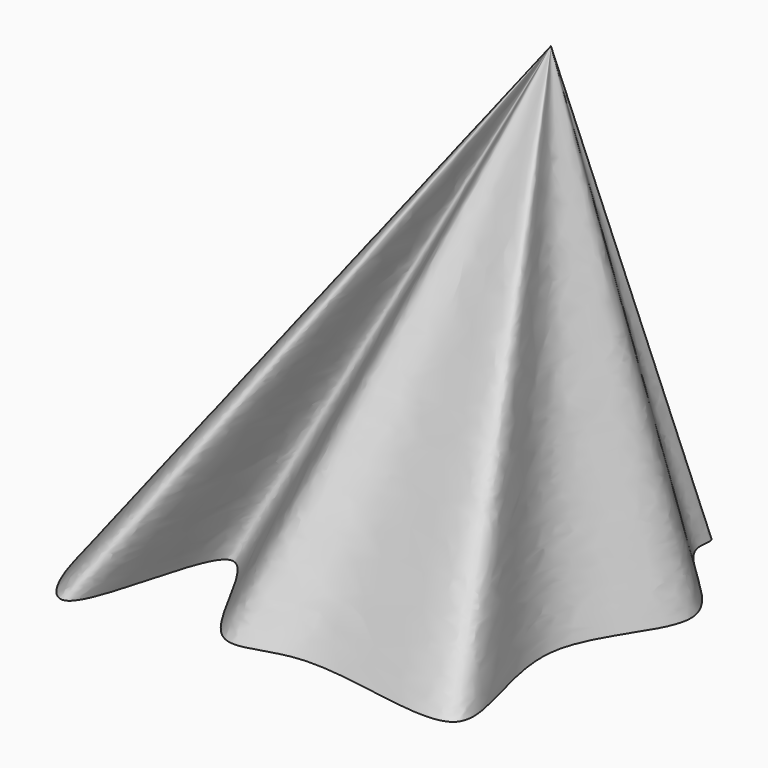
from build123d import *


with BuildPart() as f3:
    # F0 (on Top) → F3 section 0
    with BuildSketch(Plane.XY, mode=Mode.PRIVATE) as f3_s0:
        with BuildLine():
            add(Edge.make_bspline(
                [(-56.8377040327, 9.472951293), (-59.0575192518, 19.8339804413), (-41.9477263215, 54.5104144719), (-43.7297977892, 47.7938111773), (-35.2828130079, 15.4710564033), (-35.8131917588, 14.3845076367), (16.8475587936, 34.8778104541), (7.4865412896, 22.2190789575), (37.1713569051, 5.6576752325), (6.1780779407, -16.6808646242), (32.0268305438, -59.796331432), (-16.5542397126, -41.7191582989), (-31.8596916616, -57.8668806688), (-48.7217141381, -5.7530171777), (-56.9729774364, -81.8569522558), (-78.5081503969, -8.2855699859), (-44.5975787699, 2.3965715505), (-55.8435667936, 4.8327970934), (-56.8377040327, 9.472951293)],
                knots=[0, 0, 0, 0, 0.0894727911, 0.1075158786, 0.1872085317, 0.1959084903, 0.2896456332, 0.319162579, 0.3847724539, 0.4556170193, 0.5293566369, 0.6081864439, 0.6625132315, 0.7325339089, 0.8076084686, 0.8950837722, 0.9599298929, 1, 1, 1, 1], degree=3))
        make_face()
    loft([f3_s0.sketch, Vertex(0, 0, 100)])


solid = f3.part
